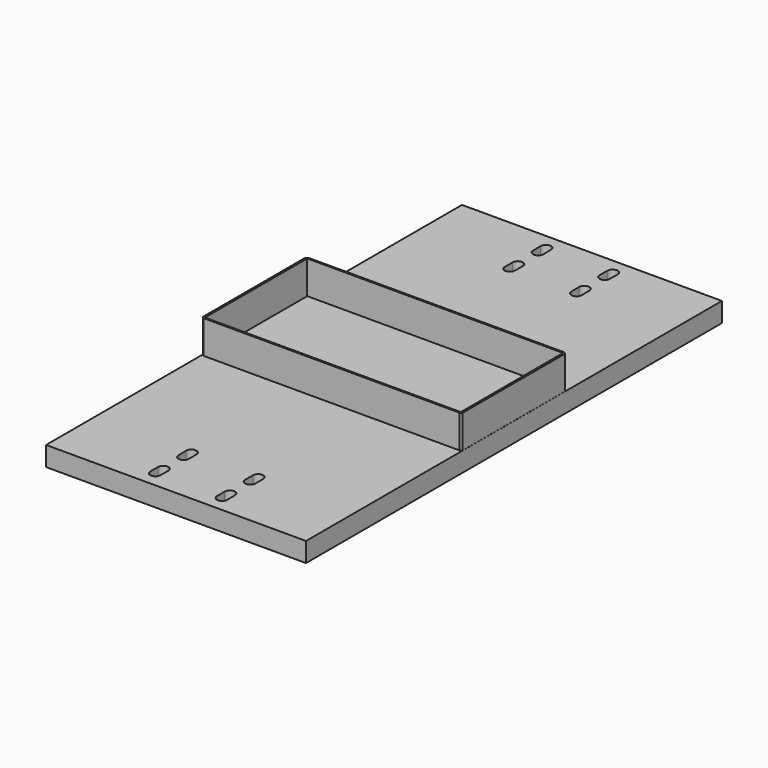
from build123d import *

# Parameters (mm, degrees)
F0_W     = 101.6
F0_H     = 203.2
F1_DEPTH = 7.62
F3_DEPTH = 25.4
F4_W     = 100
F4_H     = 50
F5_DEPTH = 12.954


with BuildPart() as f1:
    # F0 (on Top) → F1 (new body)
    with BuildSketch(Plane.XY):
        Rectangle(F0_W, F0_H)
    extrude(amount=F1_DEPTH)

    # F2 (on Top) → F3 (cut)
    with BuildSketch(Plane.XY):
        with BuildLine():
            Line((-15.035691, -77.822713), (-14.988321, -81.421245))
            ThreePointArc((-14.988321, -81.421245), (-13.081192, -83.592345), (-11.008666, -81.578528))
            Line((-11.008666, -81.578528), (-11.048887, -77.843856))
            ThreePointArc((-11.048887, -77.843856), (-13.031485, -75.796128), (-15.035691, -77.822713))
        make_face()
        with BuildLine():
            ThreePointArc((-15.035691, -95.377287), (-13.031485, -97.403872), (-11.048887, -95.356144))
            Line((-11.048887, -95.356144), (-11.008666, -91.621472))
            ThreePointArc((-11.008666, -91.621472), (-13.081192, -89.607655), (-14.988321, -91.778755))
            Line((-14.988321, -91.778755), (-15.035691, -95.377287))
        make_face()
        with BuildLine():
            ThreePointArc((15.035691, -77.822713), (13.031485, -75.796128), (11.048887, -77.843856))
            Line((11.048887, -77.843856), (11.008666, -81.578528))
            ThreePointArc((11.008666, -81.578528), (13.081192, -83.592345), (14.988321, -81.421245))
            Line((14.988321, -81.421245), (15.035691, -77.822713))
        make_face()
        with BuildLine():
            Line((11.008666, -91.621472), (11.048887, -95.356144))
            ThreePointArc((11.048887, -95.356144), (13.031485, -97.403872), (15.035691, -95.377287))
            Line((15.035691, -95.377287), (14.988321, -91.778755))
            ThreePointArc((14.988321, -91.778755), (13.081192, -89.607655), (11.008666, -91.621472))
        make_face()
        with BuildLine():
            ThreePointArc((15.035691, 95.377287), (13.031485, 97.403872), (11.048887, 95.356144))
            Line((11.048887, 95.356144), (11.008666, 91.621472))
            ThreePointArc((11.008666, 91.621472), (13.081192, 89.607655), (14.988321, 91.778755))
            Line((14.988321, 91.778755), (15.035691, 95.377287))
        make_face()
        with BuildLine():
            Line((-11.008666, 91.621472), (-11.048887, 95.356144))
            ThreePointArc((-11.048887, 95.356144), (-13.031485, 97.403872), (-15.035691, 95.377287))
            Line((-15.035691, 95.377287), (-14.988321, 91.778755))
            ThreePointArc((-14.988321, 91.778755), (-13.081192, 89.607655), (-11.008666, 91.621472))
        make_face()
        with BuildLine():
            ThreePointArc((-15.035691, 77.822713), (-13.031485, 75.796128), (-11.048887, 77.843856))
            Line((-11.048887, 77.843856), (-11.008666, 81.578528))
            ThreePointArc((-11.008666, 81.578528), (-13.081192, 83.592345), (-14.988321, 81.421245))
            Line((-14.988321, 81.421245), (-15.035691, 77.822713))
        make_face()
        with BuildLine():
            ThreePointArc((11.048887, 77.843856), (13.031485, 75.796128), (15.035691, 77.822713))
            Line((15.035691, 77.822713), (14.988321, 81.421245))
            ThreePointArc((14.988321, 81.421245), (13.081192, 83.592345), (11.008666, 81.578528))
            Line((11.008666, 81.578528), (11.048887, 77.843856))
        make_face()
    extrude(amount=F3_DEPTH, mode=Mode.SUBTRACT)

    # F4 (on face) → F5 (join)
    with BuildSketch(Plane.XY.offset(7.62)):
        Polygon((50, 25.5842), (-50, 25.5842), (-50.777242, 25), (-50.777242, -25), (-50, -25.5842), (50, -25.5842), (50.762001, -25), (50.762001, 25), align=None)
        Rectangle(F4_W, F4_H, mode=Mode.SUBTRACT)
    extrude(amount=F5_DEPTH)


solid = f1.part
